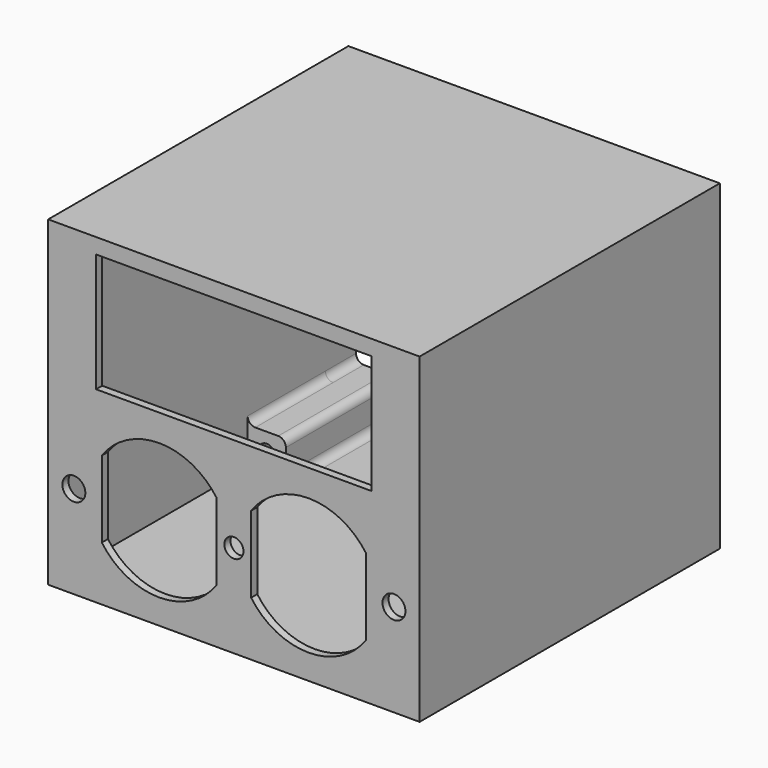
from build123d import *

# Parameters (mm, degrees)
F0_W     = 97
F0_H     = 84
F1_DEPTH = 98
F2_T     = -2
F3_W     = 72
F3_H     = 31
F3_R     = 2.5
F3_R_2   = 3
F4_DEPTH = 2
F5_W     = 10
F5_H     = 10
F5_R     = 2.25
F6_DEPTH = 10
F7_R     = 2
F8_DEPTH = 25.4


with BuildPart() as f1:
    # F0 (on Front) → F1 (new body)
    with BuildSketch(Plane.XZ):
        Rectangle(F0_W, F0_H)
    extrude(amount=F1_DEPTH)

    # F2
    f2_openings = [f1.faces().sort_by_distance(p)[0] for p in [
        (0, 0, 0),
    ]]
    offset(amount=F2_T, openings=f2_openings)

    # F3 (on face) → F4 (cut, through all)
    with BuildSketch(Plane.XZ.offset(98)):
        with BuildLine():
            ThreePointArc((-4.5, -7.75), (-19.5, 0), (-34.5, -7.75))
            Line((-34.5, -7.75), (-34.5, -27.75))
            ThreePointArc((-34.5, -27.75), (-19.5, -35.5), (-4.5, -27.75))
            Line((-4.5, -27.75), (-4.5, -7.75))
        make_face()
        with Locations((0, 22.5)):
            Rectangle(F3_W, F3_H)
        with BuildLine():
            Line((34.5, -27.75), (34.5, -7.75))
            ThreePointArc((34.5, -7.75), (19.5, 0), (4.5, -7.75))
            Line((4.5, -7.75), (4.5, -27.75))
            ThreePointArc((4.5, -27.75), (19.5, -35.5), (34.5, -27.75))
        make_face()
        with Locations((0, -17.75)):
            Circle(F3_R)
        with Locations((-41.8, -17.75)):
            Circle(F3_R_2)
        with Locations((41.8, -17.75)):
            Circle(F3_R_2)
    extrude(amount=-F4_DEPTH, mode=Mode.SUBTRACT)

    # F5 (on face) → F6 (join)
    with BuildSketch(Plane(origin=(0, 0, 0), x_dir=(-1, 0, 0), z_dir=(0, 1, 0))):
        with Locations((-41.5, 35)):
            Rectangle(F5_W, F5_H)
        with Locations((-41.5, 35)):
            Circle(F5_R, mode=Mode.SUBTRACT)
        with Locations((41.5, 35)):
            Rectangle(F5_W, F5_H)
        with Locations((41.5, 35)):
            Circle(F5_R, mode=Mode.SUBTRACT)
        with Locations((-41.5, -35)):
            Rectangle(F5_W, F5_H)
        with Locations((-41.5, -35)):
            Circle(F5_R, mode=Mode.SUBTRACT)
        with Locations((41.5, -35)):
            Rectangle(F5_W, F5_H)
        with Locations((41.5, -35)):
            Circle(F5_R, mode=Mode.SUBTRACT)
    extrude(amount=-F6_DEPTH)

    # F7
    f7_edges = [f1.edges().sort_by_distance(p)[0] for p in [
        (36.5, -5, 40),
        (46.5, -5, 30),
        (-36.5, -5, 40),
        (-46.5, -5, 30),
        (-36.5, -5, -40),
        (-46.5, -5, -30),
        (36.5, -5, -40),
        (46.5, -5, -30),
        (36.5, -5, 30),
        (36.5, -5, -30),
        (-36.5, -5, 30),
        (-36.5, -5, -30),
    ]]
    fillet(f7_edges, radius=F7_R)

    # F8 (add): a face of the model
    f8_faces = [f1.faces().sort_by_distance(p)[0] for p in [
        (-41.5, -10, -30.1697056275),
    ]]
    extrude(f8_faces, amount=F8_DEPTH)


solid = f1.part
